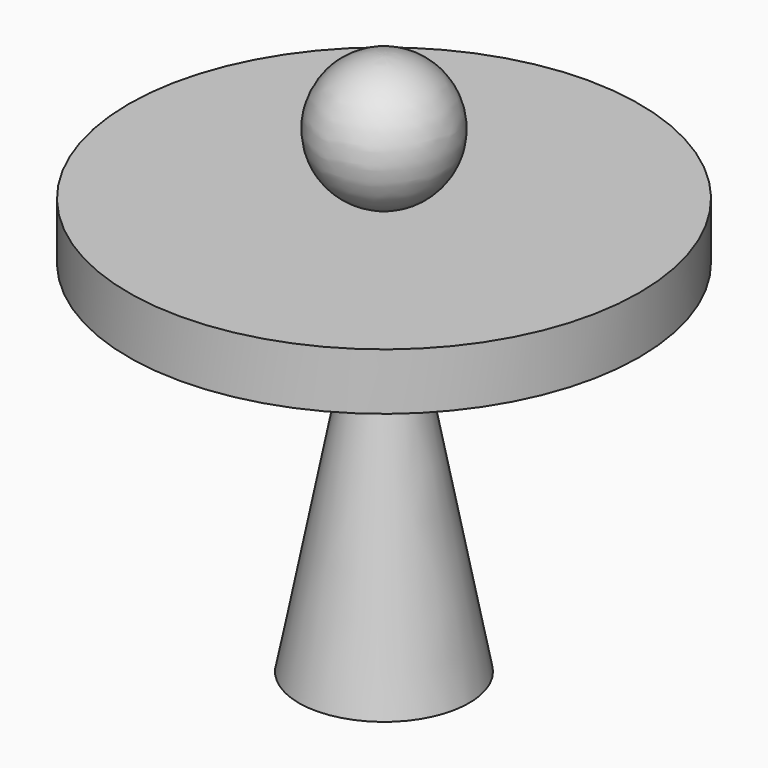
from build123d import *


with BuildPart() as f1:
    # F0 (on Front) → F1 (revolve)
    with BuildSketch(Plane.XZ):
        with BuildLine():
            Line((0, 54.801697), (0, 55.376381))
            Line((0, 55.376381), (-3.544281, 55.376381))
            ThreePointArc((-3.544281, 55.376381), (-1.795285, 54.9463), (0, 54.801697))
        make_face()
        with BuildLine():
            Line((-3.544281, 55.376381), (0, 55.376381))
            Line((0, 55.376381), (0, 77.235242))
            ThreePointArc((0, 77.235242), (-11.072169, 67.813754), (-3.544281, 55.376381))
        make_face()
        with BuildLine():
            ThreePointArc((0, 54.801697), (-1.795285, 54.9463), (-3.544281, 55.376381))
            Line((-3.544281, 55.376381), (-5.688893, 55.376381))
            Line((-5.688893, 55.376381), (-44.340517, 55.376381))
            Line((-44.340517, 55.376381), (-44.340517, 45.523312))
            Line((-44.340517, 45.523312), (-6.700345, 45.523312))
            Line((-6.700345, 45.523312), (-6.700345, 30.348621))
            Line((-6.700345, 30.348621), (-5.688893, 30.348621))
            Line((-5.688893, 30.348621), (0, 30.348621))
            Line((0, 30.348621), (0, 54.801697))
        make_face()
        Polygon((0, 18.524483), (0, 30.348621), (-5.688893, 30.348621), (-14.780172, -16.947931), (-1.77362, -16.947931), align=None)
    revolve(axis=Axis((0, 0, 47.879862), (0, 0, -1)))


solid = f1.part
